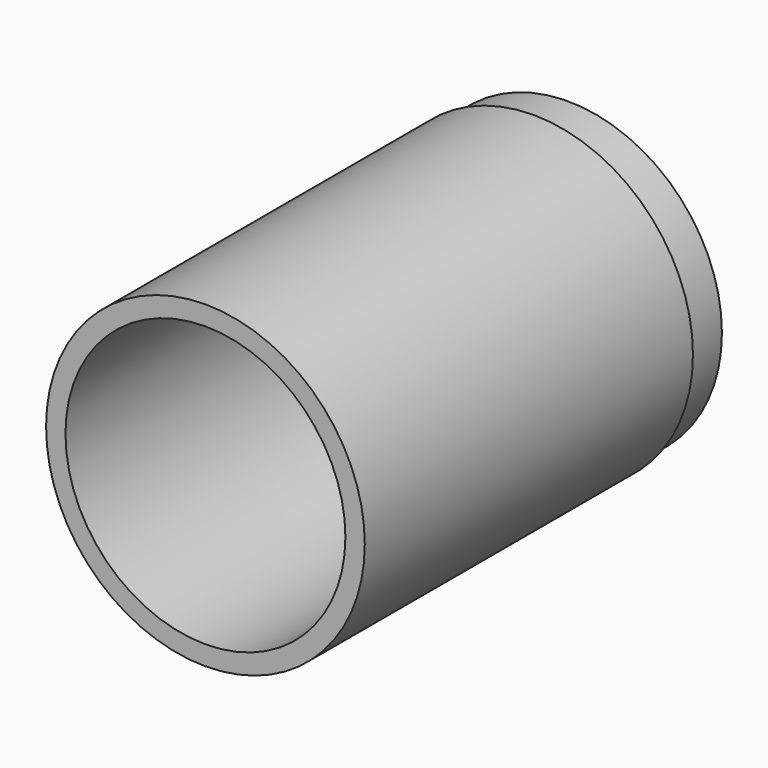
from build123d import *

# Parameters (mm, degrees)
F0_R     = 7.4
F0_R_2   = 6.5
F1_DEPTH = 19.05
F2_R     = 7.145
F2_R_2   = 6.5
F3_DEPTH = 2
F5_ANGLE = -90


with BuildPart() as f1:
    # F0 (on Top) → F1 (new body)
    with BuildSketch(Plane.XY):
        Circle(F0_R)
        Circle(F0_R_2, mode=Mode.SUBTRACT)
    extrude(amount=F1_DEPTH)

    # F2 (on face) → F3 (join)
    with BuildSketch(Plane.XY.offset(19.05)):
        Circle(F2_R)
        Circle(F2_R_2, mode=Mode.SUBTRACT)
    extrude(amount=F3_DEPTH)


with BuildPart() as f1_1:
    # F5: moved
    add(f1.part.rotate(Axis((5.261217, 0, 0), (1, 0, 0)), F5_ANGLE))


solid = f1_1.part
